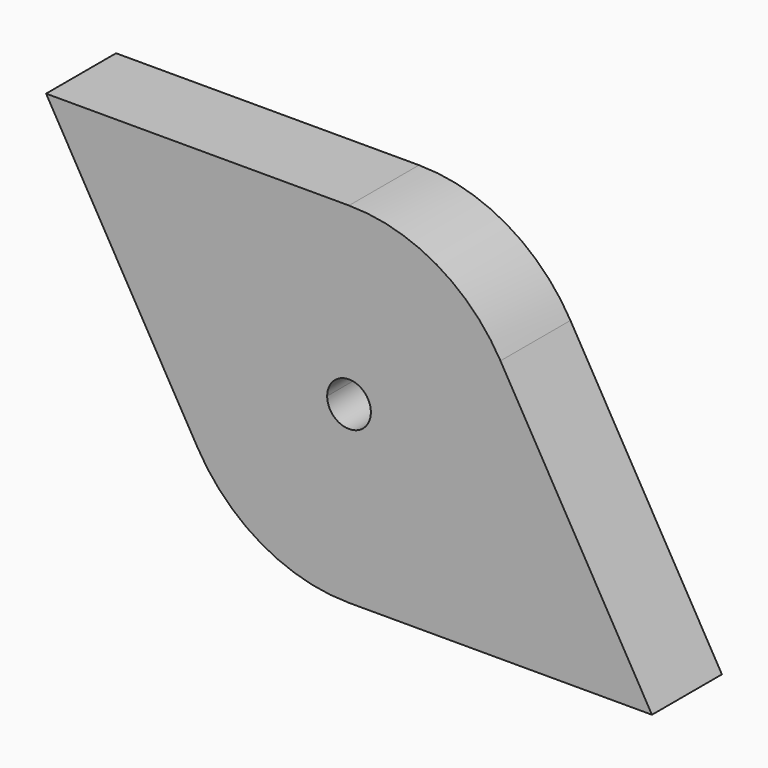
from build123d import *

# Parameters (mm, degrees)
F1_DEPTH = 3.175


with BuildPart() as f1:
    # F0 (on Front) → F1 (new body, symmetric)
    with BuildSketch(Plane.XZ):
        with BuildLine():
            ThreePointArc((81.6381810245, -141.4014773719), (76.9896583964, -146.05), (75.2881810245, -152.4))
            Line((75.2881810245, -152.4), (86.4006810245, -152.4))
            ThreePointArc((86.4006810245, -152.4), (86.613365696, -151.60625), (87.1944310245, -151.0251846715))
            Line((87.1944310245, -151.0251846715), (81.6381810245, -141.4014773719))
        make_face()
        with BuildLine():
            ThreePointArc((76.9896583964, -158.75), (81.6381810245, -163.3985226281), (87.9881810245, -165.1))
            ThreePointArc((87.9881810245, -165.1), (96.9684371456, -161.3802561211), (100.6881810245, -152.4))
            ThreePointArc((100.6881810245, -152.4), (100.2554390184, -149.1129981272), (98.9867036526, -146.05))
            ThreePointArc((98.9867036526, -146.05), (94.3381810245, -141.4014773719), (87.9881810245, -139.7))
            ThreePointArc((87.9881810245, -139.7), (84.7011791517, -140.1327420061), (81.6381810245, -141.4014773719))
            Line((81.6381810245, -141.4014773719), (87.1944310245, -151.0251846715))
            ThreePointArc((87.1944310245, -151.0251846715), (88.7819310245, -151.0251846715), (89.5756810245, -152.4))
            ThreePointArc((89.5756810245, -152.4), (87.9881810245, -153.9875), (86.4006810245, -152.4))
            Line((86.4006810245, -152.4), (75.2881810245, -152.4))
            ThreePointArc((75.2881810245, -152.4), (75.7209230306, -155.6870018728), (76.9896583964, -158.75))
        make_face()
        with BuildLine():
            Line((87.9881810245, -139.7), (80.6558326058, -139.7))
            Line((80.6558326058, -139.7), (81.6381810245, -141.4014773719))
            ThreePointArc((81.6381810245, -141.4014773719), (84.7011791517, -140.1327420061), (87.9881810245, -139.7))
        make_face()
        with BuildLine():
            Line((80.6558326058, -139.7), (65.9911357684, -139.7))
            Line((65.9911357684, -139.7), (73.3234841871, -152.4))
            Line((73.3234841871, -152.4), (75.2881810245, -152.4))
            ThreePointArc((75.2881810245, -152.4), (76.9896583964, -146.05), (81.6381810245, -141.4014773719))
            Line((81.6381810245, -141.4014773719), (80.6558326058, -139.7))
        make_face()
        with BuildLine():
            Line((75.2881810245, -152.4), (73.3234841871, -152.4))
            Line((73.3234841871, -152.4), (76.9896583964, -158.75))
            ThreePointArc((76.9896583964, -158.75), (75.7209230306, -155.6870018728), (75.2881810245, -152.4))
        make_face()
        with BuildLine():
            ThreePointArc((100.6881810245, -152.4), (96.9684371456, -161.3802561211), (87.9881810245, -165.1))
            Line((87.9881810245, -165.1), (109.9852262806, -165.1))
            Line((109.9852262806, -165.1), (98.9867036526, -146.05))
            ThreePointArc((98.9867036526, -146.05), (100.2554390184, -149.1129981272), (100.6881810245, -152.4))
        make_face()
    extrude(amount=F1_DEPTH, both=True)


solid = f1.part
